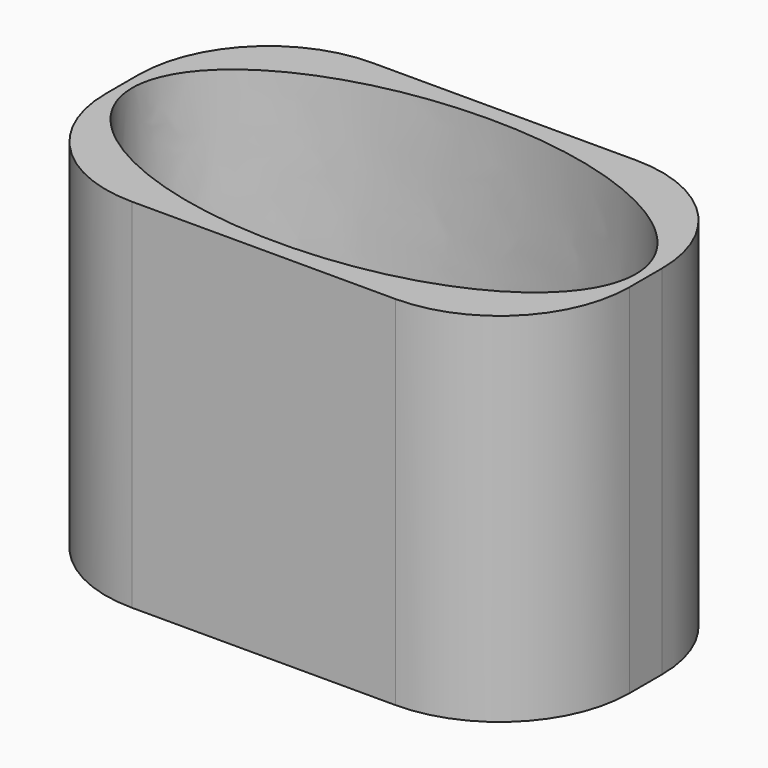
from build123d import *

# Parameters (mm, degrees)
F1_DEPTH = 55.88
F3_DEPTH = 54.38
F4_R     = 2.1556257218
F4_R_2   = 2.2
F5_DEPTH = 1.501


with BuildPart() as f1:
    # F0 (on Top) → F1 (new body)
    with BuildSketch(Plane.XY):
        with BuildLine():
            Line((20.6121, 23.495), (-20.6121, 23.495))
            ThreePointArc((-20.6121, 23.495), (-34.9805097937, 17.5434097937), (-40.9321, 3.175))
            Line((-40.9321, 3.175), (-40.9321, -3.175))
            ThreePointArc((-40.9321, -3.175), (-34.9805097937, -17.5434097937), (-20.6121, -23.495))
            Line((-20.6121, -23.495), (20.6121, -23.495))
            ThreePointArc((20.6121, -23.495), (34.9805097937, -17.5434097937), (40.9321, -3.175))
            Line((40.9321, -3.175), (40.9321, 3.175))
            ThreePointArc((40.9321, 3.175), (34.9805097937, 17.5434097937), (20.6121, 23.495))
        make_face()
    extrude(amount=F1_DEPTH)

    # F2 (on face) → F3 (cut, through all)
    with BuildSketch(Plane.XY.offset(55.88)):
        with BuildLine():
            add(Edge.make_bspline(
                [(-39.37, 0), (-39.37, -36.07515422), (19.685, -18.03757711), (78.74, 0), (19.685, 18.03757711), (-39.37, 36.07515422), (-39.37, 0)],
                knots=[0, 0, 0, 2.0943951024, 2.0943951024, 4.1887902048, 4.1887902048, 6.2831853072, 6.2831853072, 6.2831853072], degree=2, weights=[1, 0.5, 1, 0.5, 1, 0.5, 1]))
        make_face()
    extrude(amount=-F3_DEPTH, mode=Mode.SUBTRACT)

    # F4 (on face) → F5 (cut, through all)
    with BuildSketch(Plane.XY.offset(1.5)):
        with Locations((-25.4, 0)):
            Circle(F4_R)
        with Locations((25.4, 0)):
            Circle(F4_R_2)
    extrude(amount=-F5_DEPTH, mode=Mode.SUBTRACT)


solid = f1.part
